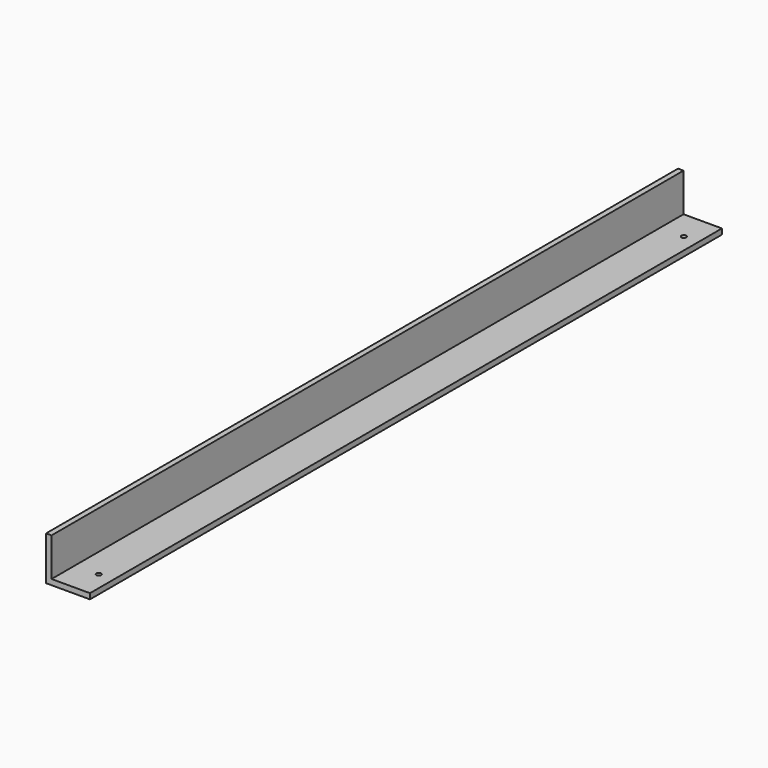
from build123d import *

# Parameters (mm, degrees)
F1_DEPTH = 685.8
F2_R     = 2.1463
F3_DEPTH = 25.4


with BuildPart() as f1:
    # F0 (on Front) → F1 (new body)
    with BuildSketch(Plane.XZ):
        Polygon((0, 38.1), (0, 0), (38.1, 0), (38.1, 4.7625), (4.7625, 4.7625), (4.7625, 38.1), align=None)
    extrude(amount=F1_DEPTH)

    # F2 (on face) → F3 (cut)
    with BuildSketch(Plane(origin=(0, 0, 0), x_dir=(1, 0, 0), z_dir=(0, 0, -1))):
        with Locations((25.4, 660.4)):
            Circle(F2_R)
        with Locations((25.4, 25.4)):
            Circle(F2_R)
    extrude(amount=-F3_DEPTH, mode=Mode.SUBTRACT)


solid = f1.part
